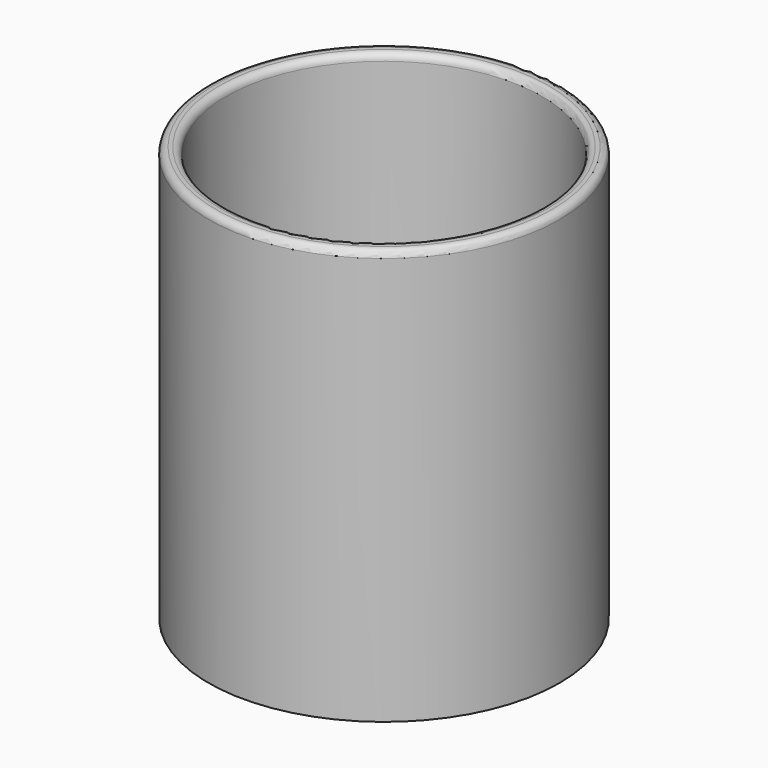
from build123d import *

# Parameters (mm, degrees)
F0_R     = 127
F0_R_2   = 114.3
F1_DEPTH = 300
F2_R     = 5
F3_SIZE  = 10


with BuildPart() as f1:
    # F0 (on Top) → F1 (new body)
    with BuildSketch(Plane.XY):
        Circle(F0_R)
        Circle(F0_R_2, mode=Mode.SUBTRACT)
    extrude(amount=F1_DEPTH)

    # F2
    f2_edges = [f1.edges().sort_by_distance(p)[0] for p in [
        (-127, 0, 300),
        (-114.3, 0, 300),
    ]]
    fillet(f2_edges, radius=F2_R)

    # F3
    f3_edges = [f1.edges().sort_by_distance(p)[0] for p in [
        (-114.3, 0, 0),
    ]]
    chamfer(f3_edges, length=F3_SIZE)


solid = f1.part
